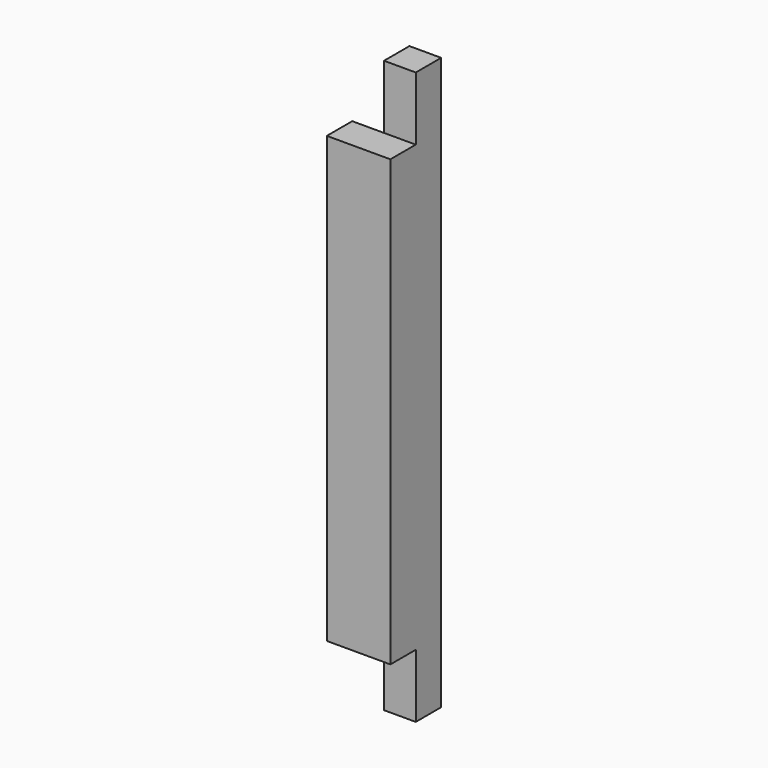
from build123d import *

# Parameters (mm, degrees)
F1_DEPTH = 457.2
F2_W     = 50.8
F2_H     = 50.8
F3_DEPTH = 25.4


with BuildPart() as f1:
    # F0 (on Top) → F1 (new body)
    with BuildSketch(Plane.XY):
        Polygon((-82.997608, -24.226959), (-82.997608, -49.626959), (-32.197608, -49.626959), (-32.197608, 1.173041), (-57.597608, 1.173041), (-57.597608, -24.226959), align=None)
    extrude(amount=F1_DEPTH)

    # F2 (on face) → F3 (cut)
    with BuildSketch(Plane.XZ.offset(49.626959)):
        with Locations((-57.597608, 431.8)):
            Rectangle(F2_W, F2_H)
        with Locations((-57.597608, 25.4)):
            Rectangle(F2_W, F2_H)
    extrude(amount=-F3_DEPTH, mode=Mode.SUBTRACT)


solid = f1.part
